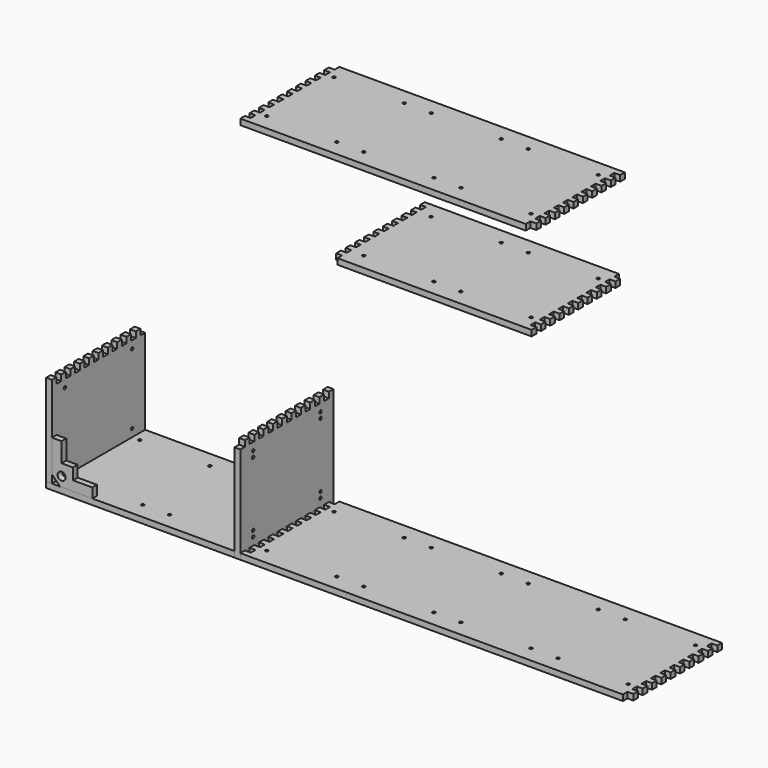
from build123d import *

# Parameters (mm, degrees)
F10_R     = 4.5
F11_DEPTH = 18
F12_R     = 4.5
F13_DEPTH = 18
F14_R     = 4.5
F14_W     = 18
F14_H     = 18
F15_DEPTH = 18
F16_R     = 4.5
F17_DEPTH = 18
F18_R     = 4.5
F19_DEPTH = 18
F20_R     = 4.5
F21_DEPTH = 18
F22_R     = 12.5
F23_DEPTH = 18


with BuildPart() as f11:
    # F10 (on Top) → F11 (new body)
    with BuildSketch(Plane.XY):
        Polygon((0, 18), (0, 0), (582, 0), (582, 18), (600, 18), (600, 36), (582, 36), (582, 54), (600, 54), (600, 72), (582, 72), (582, 90), (600, 90), (600, 108), (582, 108), (582, 126), (600, 126), (600, 144), (582, 144), (582, 162), (600, 162), (600, 180), (582, 180), (582, 198), (600, 198), (600, 216), (582, 216), (582, 234), (600, 234), (600, 252), (582, 252), (582, 270), (600, 270), (600, 288), (582, 288), (582, 306), (600, 306), (600, 324), (582, 324), (582, 342), (600, 342), (600, 360), (18, 360), (18, 342), (0, 342), (0, 324), (18, 324), (18, 306), (0, 306), (0, 288), (18, 288), (18, 270), (0, 270), (0, 252), (18, 252), (18, 234), (0, 234), (0, 216), (18, 216), (18, 198), (0, 198), (0, 180), (18, 180), (18, 162), (0, 162), (0, 144), (18, 144), (18, 126), (0, 126), (0, 108), (18, 108), (18, 90), (0, 90), (0, 72), (18, 72), (18, 54), (0, 54), (0, 36), (18, 36), (18, 18), align=None)
        with Locations((41.666667, 50)):
            Circle(F10_R, mode=Mode.SUBTRACT)
        with Locations((258.333333, 50)):
            Circle(F10_R, mode=Mode.SUBTRACT)
        with Locations((341.666667, 50)):
            Circle(F10_R, mode=Mode.SUBTRACT)
        with Locations((558.333333, 50)):
            Circle(F10_R, mode=Mode.SUBTRACT)
        with Locations((41.666667, 310)):
            Circle(F10_R, mode=Mode.SUBTRACT)
        with Locations((258.333333, 310)):
            Circle(F10_R, mode=Mode.SUBTRACT)
        with Locations((341.666667, 310)):
            Circle(F10_R, mode=Mode.SUBTRACT)
        with Locations((558.333333, 310)):
            Circle(F10_R, mode=Mode.SUBTRACT)
    extrude(amount=F11_DEPTH)


with BuildPart() as f13:
    # F12 (on Top) → F13 (new body)
    with BuildSketch(Plane.XY):
        Polygon((1800, 360), (618, 360), (618, 342), (600, 342), (600, 324), (618, 324), (618, 306), (600, 306), (600, 288), (618, 288), (618, 270), (600, 270), (600, 252), (618, 252), (618, 234), (600, 234), (600, 216), (618, 216), (618, 198), (600, 198), (600, 180), (618, 180), (618, 162), (600, 162), (600, 144), (618, 144), (618, 126), (600, 126), (600, 108), (618, 108), (618, 90), (600, 90), (600, 72), (618, 72), (618, 54), (600, 54), (600, 36), (618, 36), (618, 18), (600, 18), (600, 0), (1782, 0), (1782, 18), (1800, 18), (1800, 36), (1782, 36), (1782, 54), (1800, 54), (1800, 72), (1782, 72), (1782, 90), (1800, 90), (1800, 108), (1782, 108), (1782, 126), (1800, 126), (1800, 144), (1782, 144), (1782, 162), (1800, 162), (1800, 180), (1782, 180), (1782, 198), (1800, 198), (1800, 216), (1782, 216), (1782, 234), (1800, 234), (1800, 252), (1782, 252), (1782, 270), (1800, 270), (1800, 288), (1782, 288), (1782, 306), (1800, 306), (1800, 324), (1782, 324), (1782, 342), (1800, 342), align=None)
        with Locations((641.666667, 50)):
            Circle(F12_R, mode=Mode.SUBTRACT)
        with Locations((858.333333, 50)):
            Circle(F12_R, mode=Mode.SUBTRACT)
        with Locations((941.666667, 50)):
            Circle(F12_R, mode=Mode.SUBTRACT)
        with Locations((1158.333333, 50)):
            Circle(F12_R, mode=Mode.SUBTRACT)
        with Locations((1241.666667, 50)):
            Circle(F12_R, mode=Mode.SUBTRACT)
        with Locations((1458.333333, 50)):
            Circle(F12_R, mode=Mode.SUBTRACT)
        with Locations((1541.666667, 50)):
            Circle(F12_R, mode=Mode.SUBTRACT)
        with Locations((1758.333333, 50)):
            Circle(F12_R, mode=Mode.SUBTRACT)
        with Locations((641.666667, 310)):
            Circle(F12_R, mode=Mode.SUBTRACT)
        with Locations((858.333333, 310)):
            Circle(F12_R, mode=Mode.SUBTRACT)
        with Locations((941.666667, 310)):
            Circle(F12_R, mode=Mode.SUBTRACT)
        with Locations((1158.333333, 310)):
            Circle(F12_R, mode=Mode.SUBTRACT)
        with Locations((1241.666667, 310)):
            Circle(F12_R, mode=Mode.SUBTRACT)
        with Locations((1458.333333, 310)):
            Circle(F12_R, mode=Mode.SUBTRACT)
        with Locations((1541.666667, 310)):
            Circle(F12_R, mode=Mode.SUBTRACT)
        with Locations((1758.333333, 310)):
            Circle(F12_R, mode=Mode.SUBTRACT)
    extrude(amount=F13_DEPTH)


with BuildPart() as f15:
    # F14 (on Right) → F15 (new body)
    with BuildSketch(Plane.YZ):
        Polygon((342, 0), (360, 0), (360, 282), (342, 282), (342, 300), (324, 300), (324, 282), (306, 282), (306, 300), (288, 300), (288, 282), (270, 282), (270, 300), (252, 300), (252, 282), (234, 282), (234, 300), (216, 300), (216, 282), (198, 282), (198, 300), (180, 300), (180, 282), (162, 282), (162, 300), (144, 300), (144, 282), (126, 282), (126, 300), (108, 300), (108, 282), (90, 282), (90, 300), (72, 300), (72, 282), (54, 282), (54, 300), (36, 300), (36, 282), (18, 282), (18, 300), (0, 300), (0, 18), (18, 18), (18, 0), (36, 0), (36, 18), (54, 18), (54, 0), (72, 0), (72, 18), (90, 18), (90, 0), (108, 0), (108, 18), (126, 18), (126, 0), (144, 0), (144, 18), (162, 18), (162, 0), (180, 0), (180, 18), (198, 18), (198, 0), (216, 0), (216, 18), (234, 18), (252, 18), (270, 18), (288, 18), (306, 18), (306, 0), (324, 0), (324, 18), (342, 18), align=None)
        with Locations((50, 41.666667)):
            Circle(F14_R, mode=Mode.SUBTRACT)
        with Locations((310, 41.666667)):
            Circle(F14_R, mode=Mode.SUBTRACT)
        with Locations((50, 258.333333)):
            Circle(F14_R, mode=Mode.SUBTRACT)
        with Locations((310, 258.333333)):
            Circle(F14_R, mode=Mode.SUBTRACT)
        with Locations((279, 9)):
            Rectangle(F14_W, F14_H)
        with Locations((243, 9)):
            Rectangle(F14_W, F14_H)
    extrude(amount=F15_DEPTH)


with BuildPart() as f17:
    # F16 (on offset) → F17 (new body)
    with BuildSketch(Plane.YZ.offset(600)):
        Polygon((342, 18), (360, 18), (360, 318), (342, 318), (342, 300), (324, 300), (324, 318), (306, 318), (306, 300), (288, 300), (288, 318), (270, 318), (270, 300), (252, 300), (252, 318), (234, 318), (234, 300), (216, 300), (216, 318), (198, 318), (198, 300), (180, 300), (180, 318), (162, 318), (162, 300), (144, 300), (144, 318), (126, 318), (126, 300), (108, 300), (108, 318), (90, 318), (90, 300), (72, 300), (72, 318), (54, 318), (54, 300), (36, 300), (36, 318), (18, 318), (18, 300), (0, 300), (0, 0), (18, 0), (18, 18), (36, 18), (36, 0), (54, 0), (54, 18), (72, 18), (72, 0), (90, 0), (90, 18), (108, 18), (108, 0), (126, 0), (126, 18), (144, 18), (144, 0), (162, 0), (162, 18), (180, 18), (180, 0), (198, 0), (198, 18), (216, 18), (216, 0), (234, 0), (234, 18), (252, 18), (252, 0), (270, 0), (270, 18), (288, 18), (288, 0), (306, 0), (306, 18), (324, 18), (324, 0), (342, 0), align=None)
        with Locations((50, 41.666667)):
            Circle(F16_R, mode=Mode.SUBTRACT)
        with Locations((50, 59.666667)):
            Circle(F16_R, mode=Mode.SUBTRACT)
        with Locations((310, 41.666667)):
            Circle(F16_R, mode=Mode.SUBTRACT)
        with Locations((310, 59.666667)):
            Circle(F16_R, mode=Mode.SUBTRACT)
        with Locations((50, 258.333333)):
            Circle(F16_R, mode=Mode.SUBTRACT)
        with Locations((50, 276.333333)):
            Circle(F16_R, mode=Mode.SUBTRACT)
        with Locations((310, 258.333333)):
            Circle(F16_R, mode=Mode.SUBTRACT)
        with Locations((310, 276.333333)):
            Circle(F16_R, mode=Mode.SUBTRACT)
    extrude(amount=-F17_DEPTH)


with BuildPart() as f19:
    # F18 (on offset) → F19 (new body)
    with BuildSketch(Plane.XY.offset(1200)):
        Polygon((1500, 342), (1500, 360), (618, 360), (618, 342), (600, 342), (600, 324), (618, 324), (618, 306), (600, 306), (600, 288), (618, 288), (618, 270), (600, 270), (600, 252), (618, 252), (618, 234), (600, 234), (600, 216), (618, 216), (618, 198), (600, 198), (600, 180), (618, 180), (618, 162), (600, 162), (600, 144), (618, 144), (618, 126), (600, 126), (600, 108), (618, 108), (618, 90), (600, 90), (600, 72), (618, 72), (618, 54), (600, 54), (600, 36), (618, 36), (618, 18), (600, 18), (600, 0), (1482, 0), (1482, 18), (1500, 18), (1500, 36), (1482, 36), (1482, 54), (1500, 54), (1500, 72), (1482, 72), (1482, 90), (1500, 90), (1500, 108), (1482, 108), (1482, 126), (1500, 126), (1500, 144), (1482, 144), (1482, 162), (1500, 162), (1500, 180), (1482, 180), (1482, 198), (1500, 198), (1500, 216), (1482, 216), (1482, 234), (1500, 234), (1500, 252), (1482, 252), (1482, 270), (1500, 270), (1500, 288), (1482, 288), (1482, 306), (1500, 306), (1500, 324), (1482, 324), (1482, 342), align=None)
        with Locations((641.666667, 50)):
            Circle(F18_R, mode=Mode.SUBTRACT)
        with Locations((858.333333, 50)):
            Circle(F18_R, mode=Mode.SUBTRACT)
        with Locations((941.666667, 50)):
            Circle(F18_R, mode=Mode.SUBTRACT)
        with Locations((1158.333333, 50)):
            Circle(F18_R, mode=Mode.SUBTRACT)
        with Locations((1241.666667, 50)):
            Circle(F18_R, mode=Mode.SUBTRACT)
        with Locations((1458.333333, 50)):
            Circle(F18_R, mode=Mode.SUBTRACT)
        with Locations((641.666667, 310)):
            Circle(F18_R, mode=Mode.SUBTRACT)
        with Locations((858.333333, 310)):
            Circle(F18_R, mode=Mode.SUBTRACT)
        with Locations((941.666667, 310)):
            Circle(F18_R, mode=Mode.SUBTRACT)
        with Locations((1158.333333, 310)):
            Circle(F18_R, mode=Mode.SUBTRACT)
        with Locations((1241.666667, 310)):
            Circle(F18_R, mode=Mode.SUBTRACT)
        with Locations((1458.333333, 310)):
            Circle(F18_R, mode=Mode.SUBTRACT)
    extrude(amount=-F19_DEPTH)


with BuildPart() as f21:
    # F20 (on offset) → F21 (new body)
    with BuildSketch(Plane.XY.offset(900)):
        Polygon((1482, 342), (1482, 360), (882, 360), (882, 342), (900, 342), (900, 324), (882, 324), (882, 306), (900, 306), (900, 288), (882, 288), (882, 270), (900, 270), (900, 252), (882, 252), (882, 234), (900, 234), (900, 216), (882, 216), (882, 198), (900, 198), (900, 180), (882, 180), (882, 162), (900, 162), (900, 144), (882, 144), (882, 126), (900, 126), (900, 108), (882, 108), (882, 90), (900, 90), (900, 72), (882, 72), (882, 54), (900, 54), (900, 36), (882, 36), (882, 18), (900, 18), (900, 0), (1500, 0), (1500, 18), (1482, 18), (1482, 36), (1500, 36), (1500, 54), (1482, 54), (1482, 72), (1500, 72), (1500, 90), (1482, 90), (1482, 108), (1500, 108), (1500, 126), (1482, 126), (1482, 144), (1500, 144), (1500, 162), (1482, 162), (1482, 180), (1500, 180), (1500, 198), (1482, 198), (1482, 216), (1500, 216), (1500, 234), (1482, 234), (1482, 252), (1500, 252), (1500, 270), (1482, 270), (1482, 288), (1500, 288), (1500, 306), (1482, 306), (1482, 324), (1500, 324), (1500, 342), align=None)
        with Locations((941.666667, 50)):
            Circle(F20_R, mode=Mode.SUBTRACT)
        with Locations((1158.333333, 50)):
            Circle(F20_R, mode=Mode.SUBTRACT)
        with Locations((1241.666667, 50)):
            Circle(F20_R, mode=Mode.SUBTRACT)
        with Locations((1458.333333, 50)):
            Circle(F20_R, mode=Mode.SUBTRACT)
        with Locations((941.666667, 310)):
            Circle(F20_R, mode=Mode.SUBTRACT)
        with Locations((1158.333333, 310)):
            Circle(F20_R, mode=Mode.SUBTRACT)
        with Locations((1241.666667, 310)):
            Circle(F20_R, mode=Mode.SUBTRACT)
        with Locations((1458.333333, 310)):
            Circle(F20_R, mode=Mode.SUBTRACT)
    extrude(amount=F21_DEPTH)


with BuildPart() as f23:
    # F22 (on Front) → F23 (new body)
    with BuildSketch(Plane.XZ):
        Polygon((18, 143), (18, 43), (43, 18), (143, 18), (143, 48), (83, 48), (83, 83), (48, 83), (48, 143), align=None)
        with Locations((48, 48)):
            Circle(F22_R, mode=Mode.SUBTRACT)
    extrude(amount=-F23_DEPTH)


solid = Compound([f11.part, f13.part, f15.part, f17.part, f19.part, f21.part, f23.part])
